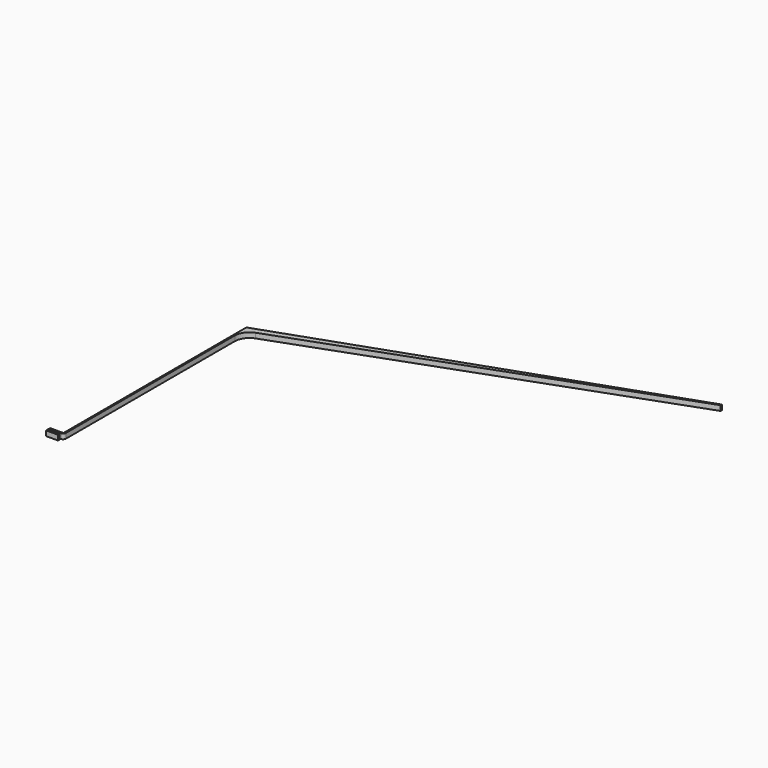
from build123d import *

# Parameters (mm, degrees)
PAD_DEPTH = 10


with BuildPart() as part:
    # Sketch → Pad (new body)
    with BuildSketch(Plane.XY):
        with BuildLine():
            Line((2.012226, 0), (22.012226, 0))
            ThreePointArc((22.012226, 0), (25.943926, 1.628563), (27.572489, 5.560263))
            Line((27.572489, 5.560263), (27.572489, 423.618953))
            ThreePointArc((46.701722, 450.938329), (32.830223, 440.294353), (27.572489, 423.618953))
            Line((46.701722, 450.938329), (760.532733, 710.751569))
            Line((760.532733, 713.751569), (760.532733, 710.751569))
            Line((24.572489, 455.938329), (760.532733, 713.751569))
            Line((24.572489, 3), (24.572489, 455.938329))
            Line((-1.804961, 3), (24.572489, 3))
            Line((-1.804961, -7), (-1.804961, 3))
            Line((21.983993, -7), (-1.804961, -7))
            Line((21.983993, -4), (21.983993, -7))
            Line((1.983993, -4), (21.983993, -4))
            ThreePointArc((0, -2.016007), (0.581098, -3.418902), (1.983993, -4))
            Line((0, -2.012226), (0, -2.016007))
            ThreePointArc((2.012226, 0), (0.589367, -0.589367), (0, -2.012226))
        make_face()
    extrude(amount=PAD_DEPTH)


solid = part.part
